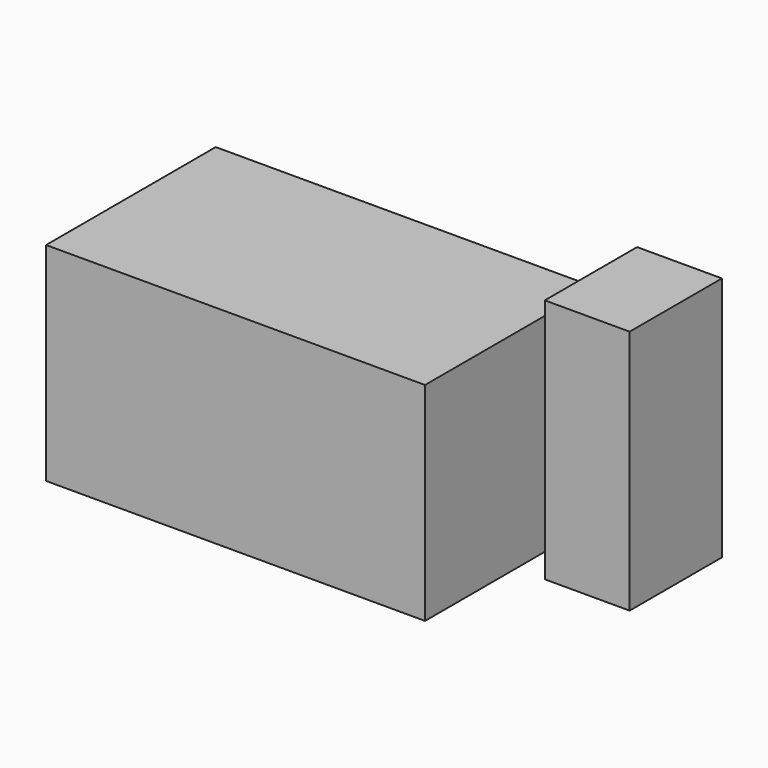
from build123d import *

# Parameters (mm, degrees)
F0_W     = 226.923436
F0_H     = 124.384374
F1_DEPTH = 127
F2_W     = 69.073379
F2_H     = 147.068739
F3_DEPTH = 50.8


with BuildPart() as f1:
    # F0 (on Front) → F1 (new body)
    with BuildSketch(Plane.XZ):
        Rectangle(F0_W, F0_H)
    extrude(amount=F1_DEPTH)

    # F2 (on face) → F3 (join)
    with BuildSketch(Plane.YZ.offset(113.461718)):
        with Locations((-2.807253, -3.165864)):
            Rectangle(F2_W, F2_H)
    extrude(amount=F3_DEPTH)


solid = f1.part
